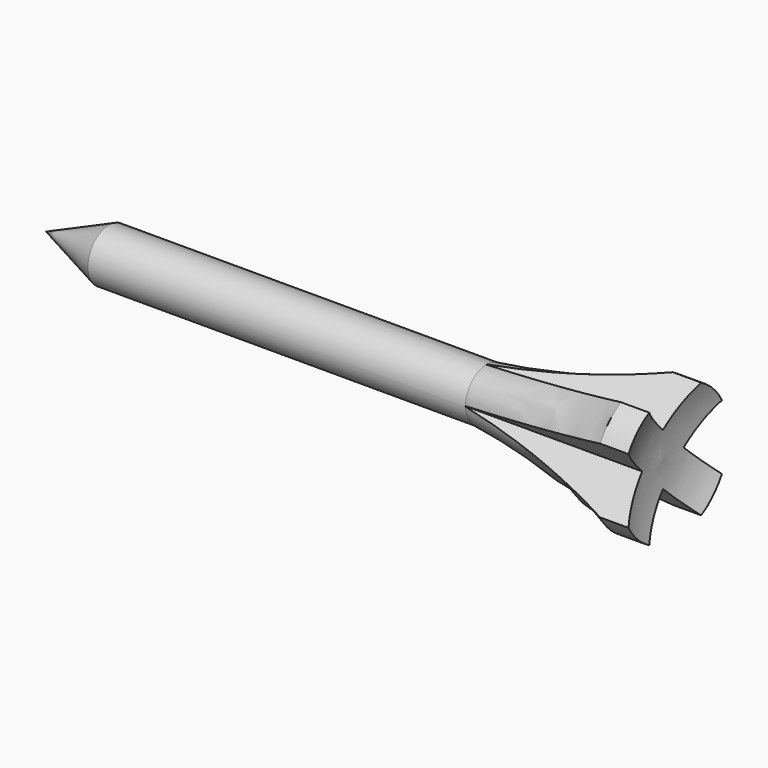
from build123d import *

# Parameters (mm, degrees)
F3_DEPTH = 15.24


with BuildPart() as f1:
    # F0 (on Top) → F1 (revolve)
    with BuildSketch(Plane.XY):
        with BuildLine():
            ThreePointArc((-1.032711, 0), (-0.880739, 2.768468), (0, 5.3975))
            Line((0, 5.3975), (-2.286, 5.3975))
            ThreePointArc((-2.286, 5.3975), (-8.654858, 3.331535), (-15.24, 2.120558))
            Line((-15.24, 2.120558), (-45.731511, 2.120558))
            Line((-45.731511, 2.120558), (-50.811511, 0))
            Line((-50.811511, 0), (-1.032711, 0))
        make_face()
    revolve(axis=Axis((-25.922111, 0, 0), (-1, 0, 0)))

    # F2 (on Right) → F3 (cut)
    with BuildSketch(Plane.YZ):
        Polygon((3.833906, -5.929406), (0, -2.0955), (-3.833906, -5.929406), align=None)
        Polygon((-6.421372, -4.325872), (-2.0955, 0), (-6.421372, 4.325872), align=None)
        Polygon((6.06417, 3.96867), (2.0955, 0), (6.06417, -3.96867), align=None)
        Polygon((-4.487521, 6.583021), (0, 2.0955), (4.487521, 6.583021), align=None)
    extrude(amount=-F3_DEPTH, mode=Mode.SUBTRACT)


solid = f1.part
